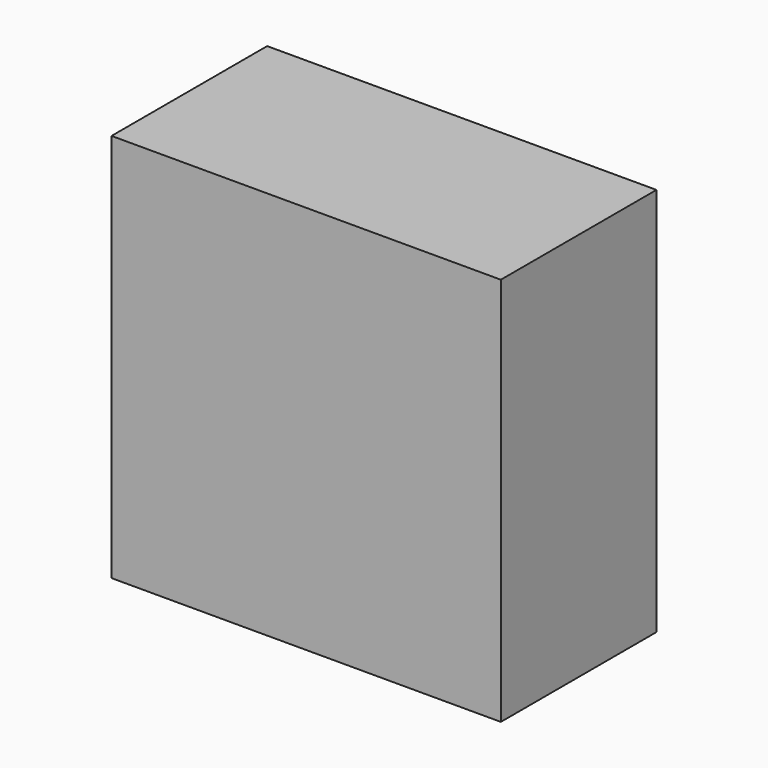
from build123d import *

# Parameters (mm, degrees)
F1_DEPTH = 18.9865


with BuildPart() as f1:
    # F0 (on Front) → F1 (new body)
    with BuildSketch(Plane.XZ):
        Polygon((0.012704, 18.986496), (-18.986496, 18.986496), (-18.986496, -0.012704), (0, 0), align=None)
        Polygon((19.011904, 18.986496), (0.012704, 18.986496), (0, 0), (19.011904, -0.012704), align=None)
        Polygon((0, 0), (-18.986496, -0.012704), (-18.986496, -19.011904), (0.012704, -19.011904), align=None)
        Polygon((19.011904, -0.012704), (0, 0), (0.012704, -19.011904), (19.011904, -19.011904), align=None)
    extrude(amount=F1_DEPTH)


solid = f1.part
